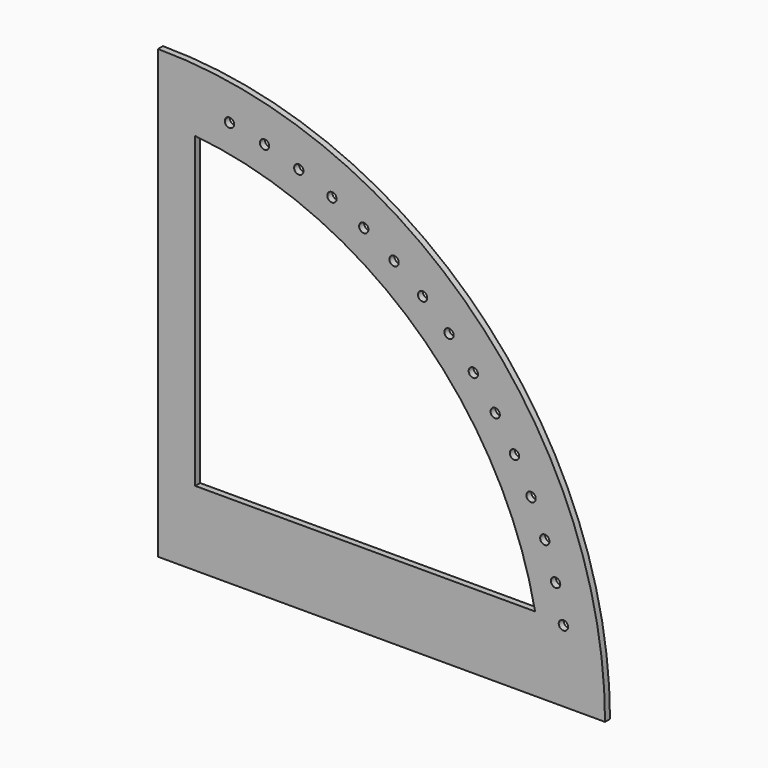
from build123d import *

# Parameters (mm, degrees)
F1_DEPTH = 6.35


with BuildPart() as f1:
    # F0 (on Front) → F1 (new body)
    with BuildSketch(Plane.XZ):
        with BuildLine():
            Line((0, 420.979559), (0, 0))
            Line((0, 0), (420.979559, 0))
            ThreePointArc((420.979559, 0), (419.578436, 34.318011), (415.384391, 68.407584))
            ThreePointArc((415.384391, 68.407584), (409.893787, 72.275334), (413.730418, 77.787727))
            ThreePointArc((413.730418, 77.787727), (411.000663, 91.116653), (407.841614, 104.350407))
            ThreePointArc((407.841614, 104.350407), (402.034807, 107.724902), (405.376402, 113.550703))
            ThreePointArc((405.376402, 113.550703), (401.495342, 126.590995), (397.194916, 139.499061))
            ThreePointArc((397.194916, 139.499061), (391.116099, 142.354618), (393.937226, 148.44949))
            ThreePointArc((393.937226, 148.44949), (388.934399, 161.101903), (383.525325, 173.586043))
            ThreePointArc((383.525325, 173.586043), (377.220762, 175.90093), (379.499951, 182.218487))
            ThreePointArc((379.499951, 182.218487), (373.41343, 194.386728), (366.936875, 206.35193))
            ThreePointArc((366.936875, 206.35193), (360.454547, 208.10853), (362.174451, 214.60069))
            ThreePointArc((362.174451, 214.60069), (355.050559, 226.192152), (347.555814, 237.547355))
            ThreePointArc((347.555814, 237.547355), (340.945055, 238.732298), (342.092586, 245.349653))
            ThreePointArc((342.092586, 245.349653), (333.98554, 256.276118), (325.529643, 266.9349))
            ThreePointArc((325.529643, 266.9349), (318.840766, 267.539169), (319.407189, 274.231357))
            ThreePointArc((319.407189, 274.231357), (310.378688, 284.409668), (301.025995, 294.29091))
            ThreePointArc((301.025995, 294.29091), (294.309905, 294.309905), (294.29091, 301.025995))
            ThreePointArc((294.29091, 301.025995), (284.409668, 310.378688), (274.231357, 319.407189))
            ThreePointArc((274.231357, 319.407189), (267.539169, 318.840766), (266.9349, 325.529643))
            ThreePointArc((266.9349, 325.529643), (256.276118, 333.98554), (245.349653, 342.092586))
            ThreePointArc((245.349653, 342.092586), (238.732298, 340.945055), (237.547355, 347.555814))
            ThreePointArc((237.547355, 347.555814), (226.192152, 355.050559), (214.60069, 362.174451))
            ThreePointArc((214.60069, 362.174451), (208.10853, 360.454547), (206.35193, 366.936875))
            ThreePointArc((206.35193, 366.936875), (194.386728, 373.41343), (182.218487, 379.499951))
            ThreePointArc((182.218487, 379.499951), (175.90093, 377.220762), (173.586043, 383.525325))
            ThreePointArc((173.586043, 383.525325), (161.101903, 388.934399), (148.44949, 393.937226))
            ThreePointArc((148.44949, 393.937226), (142.354618, 391.116099), (139.499061, 397.194916))
            ThreePointArc((139.499061, 397.194916), (126.590995, 401.495342), (113.550703, 405.376402))
            ThreePointArc((113.550703, 405.376402), (107.724902, 402.034807), (104.350407, 407.841614))
            ThreePointArc((104.350407, 407.841614), (91.116653, 411.000663), (77.787727, 413.730418))
            ThreePointArc((77.787727, 413.730418), (72.275334, 409.893787), (68.407584, 415.384391))
            ThreePointArc((68.407584, 415.384391), (34.318011, 419.578436), (0, 420.979559))
        make_face()
        with BuildLine():
            Line((385.650199, 76.2), (38.1, 76.2))
            Line((38.1, 76.2), (38.1, 391.255551))
            ThreePointArc((38.1, 391.255551), (264.019048, 291.249821), (385.650199, 76.2))
        make_face(mode=Mode.SUBTRACT)
        with BuildLine():
            Line((0, 457.2), (0, 420.979559))
            ThreePointArc((0, 420.979559), (34.318011, 419.578436), (68.407584, 415.384391))
            ThreePointArc((68.407584, 415.384391), (73.503993, 419.329466), (77.864833, 414.583934))
            ThreePointArc((77.864833, 414.583934), (77.845518, 414.155438), (77.787727, 413.730418))
            ThreePointArc((77.787727, 413.730418), (91.116653, 411.000663), (104.350407, 407.841614))
            ThreePointArc((104.350407, 407.841614), (109.565802, 411.358524), (113.720028, 406.635029))
            ThreePointArc((113.720028, 406.635029), (113.677507, 406.000046), (113.550703, 405.376402))
            ThreePointArc((113.550703, 405.376402), (126.590995, 401.495342), (139.499061, 397.194916))
            ThreePointArc((139.499061, 397.194916), (144.797221, 400.283853), (148.745989, 395.591385))
            ThreePointArc((148.745989, 395.591385), (148.671278, 394.751125), (148.44949, 393.937226))
            ThreePointArc((148.44949, 393.937226), (161.101903, 388.934399), (173.586043, 383.525325))
            ThreePointArc((173.586043, 383.525325), (178.931289, 386.189559), (182.67615, 381.537053))
            ThreePointArc((182.67615, 381.537053), (182.560325, 380.493113), (182.218487, 379.499951))
            ThreePointArc((182.218487, 379.499951), (194.386728, 373.41343), (206.35193, 366.936875))
            ThreePointArc((206.35193, 366.936875), (211.70939, 369.182682), (215.25228, 364.578993))
            ThreePointArc((215.25228, 364.578993), (215.086497, 363.333362), (214.60069, 362.174451))
            ThreePointArc((214.60069, 362.174451), (226.192152, 355.050559), (237.547355, 347.555814))
            ThreePointArc((237.547355, 347.555814), (242.883215, 349.392376), (246.226455, 344.846267))
            ThreePointArc((246.226455, 344.846267), (246.001964, 343.401315), (245.349653, 342.092586))
            ThreePointArc((245.349653, 342.092586), (256.276118, 333.98554), (266.9349, 325.529643))
            ThreePointArc((266.9349, 325.529643), (272.216652, 326.968927), (275.362945, 322.489052))
            ThreePointArc((275.362945, 322.489052), (275.071106, 320.847531), (274.231357, 319.407189))
            ThreePointArc((274.231357, 319.407189), (284.409668, 310.378688), (294.29091, 301.025995))
            ThreePointArc((294.29091, 301.025995), (299.48758, 302.082614), (302.440001, 297.677501))
            ThreePointArc((302.440001, 297.677501), (302.072305, 295.842534), (301.025995, 294.29091))
            ThreePointArc((301.025995, 294.29091), (310.378688, 284.409668), (319.407189, 274.231357))
            ThreePointArc((319.407189, 274.231357), (324.489556, 274.922411), (327.251552, 270.600445))
            ThreePointArc((327.251552, 270.600445), (326.799633, 268.575526), (325.529643, 266.9349))
            ThreePointArc((325.529643, 266.9349), (333.98554, 256.276118), (342.092586, 245.349653))
            ThreePointArc((342.092586, 245.349653), (347.033388, 245.694547), (349.608767, 241.463955))
            ThreePointArc((349.608767, 241.463955), (349.064419, 239.252939), (347.555814, 237.547355))
            ThreePointArc((347.555814, 237.547355), (355.050559, 226.192152), (362.174451, 214.60069))
            ThreePointArc((362.174451, 214.60069), (366.948569, 214.620944), (369.341493, 210.48978))
            ThreePointArc((369.341493, 210.48978), (368.696688, 208.096874), (366.936875, 206.35193))
            ThreePointArc((366.936875, 206.35193), (373.41343, 194.386728), (379.499951, 182.218487))
            ThreePointArc((379.499951, 182.218487), (384.084572, 181.937522), (386.299553, 177.91365))
            ThreePointArc((386.299553, 177.91365), (385.546451, 175.34341), (383.525325, 173.586043))
            ThreePointArc((383.525325, 173.586043), (388.934399, 161.101903), (393.937226, 148.44949))
            ThreePointArc((393.937226, 148.44949), (398.311999, 147.892411), (400.353885, 143.983489))
            ThreePointArc((400.353885, 143.983489), (399.484856, 141.240809), (397.194916, 139.499061))
            ThreePointArc((397.194916, 139.499061), (401.495342, 126.590995), (405.376402, 113.550703))
            ThreePointArc((405.376402, 113.550703), (409.523557, 112.744057), (411.397529, 108.957528))
            ThreePointArc((411.397529, 108.957528), (410.405159, 106.047627), (407.841614, 104.350407))
            ThreePointArc((407.841614, 104.350407), (411.000663, 91.116653), (413.730418, 77.787727))
            ThreePointArc((413.730418, 77.787727), (417.63488, 76.759263), (419.346434, 73.102333))
            ThreePointArc((419.346434, 73.102333), (418.223548, 70.030751), (415.384391, 68.407584))
            ThreePointArc((415.384391, 68.407584), (419.578436, 34.318011), (420.979559, 0))
            Line((420.979559, 0), (457.2, 0))
            ThreePointArc((457.2, 0), (323.28922, 323.28922), (0, 457.2))
        make_face()
    extrude(amount=F1_DEPTH)


solid = f1.part
